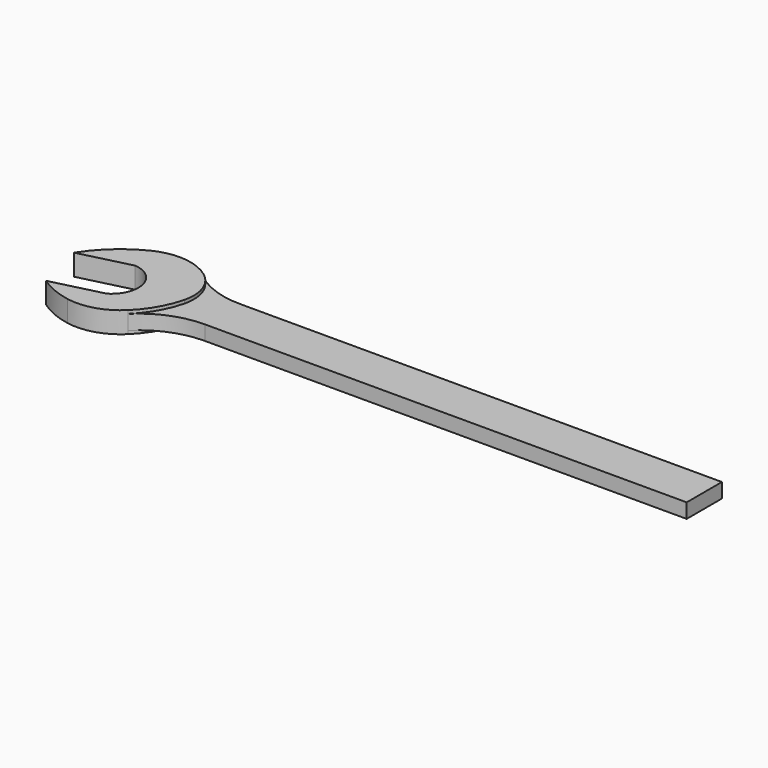
from build123d import *

# Parameters (mm, degrees)
PAD_DEPTH    = 2.65
PAD001_DEPTH = 3.85


with BuildPart() as part:
    # Sketch001 → Pad (new body, symmetric)
    with BuildSketch(Plane.XY):
        with BuildLine():
            ThreePointArc((-18, 31.032135), (-9.486833, 26.571636), (0, 25.032135))
            Line((0, 25.032135), (140, 25.032135))
            Line((140, 25.032135), (175, 25.032135))
            Line((175, 25.032135), (175, 9.032135))
            Line((140, 9.032135), (175, 9.032135))
            Line((0, 9.032135), (140, 9.032135))
            ThreePointArc((0, 9.032135), (-11.341769, 6.80558), (-21, 0.45642))
            ThreePointArc((-21, 0.45642), (-15.685703, 7.338058), (-12.444835, 15.406233))
            ThreePointArc((-12.444835, 15.406233), (-12.866577, 24.056709), (-18, 31.032135))
        make_face()
    extrude(amount=PAD_DEPTH, both=True)

    # Sketch → Pad001 (join, symmetric)
    with BuildSketch(Plane.XY):
        with BuildLine():
            Line((-55, 18.435619), (-36.564381, 23.032135))
            ThreePointArc((-31.967865, 4.596516), (-27.592913, 15.478143), (-36.564381, 23.032135))
            Line((-50.403484, 0), (-31.967865, 4.596516))
            ThreePointArc((-50.403484, 0), (-44.770144, -3.102558), (-38.604972, -4.933145))
            ThreePointArc((-38.604972, -4.933145), (-29.145429, -4.384635), (-21, 0.45642))
            ThreePointArc((-21, 0.45642), (-15.685703, 7.338058), (-12.444835, 15.406233))
            ThreePointArc((-12.444835, 15.406233), (-12.866577, 24.056709), (-18, 31.032135))
            ThreePointArc((-18, 31.032135), (-28.137567, 34.94523), (-38.824935, 32.979851))
            ThreePointArc((-38.824935, 32.979851), (-47.920113, 26.828366), (-55, 18.435619))
        make_face()
    extrude(amount=PAD001_DEPTH, both=True)


solid = part.part
